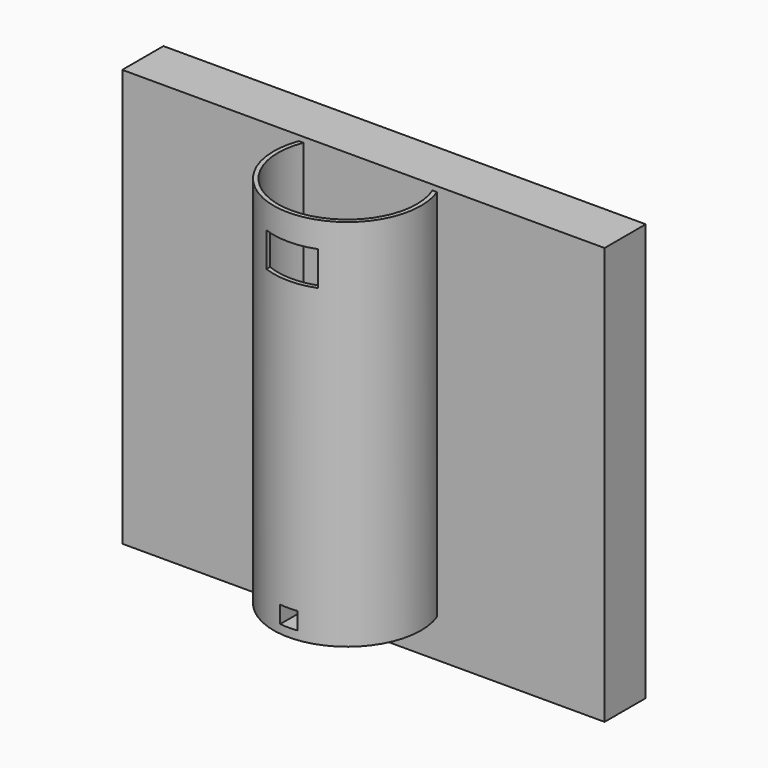
from build123d import *

# Parameters (mm, degrees)
SKETCH_R             = 8.6
PAD_DEPTH            = 1
SKETCH001_R          = 8.6
SKETCH001_R_2        = 3.2
PAD001_DEPTH         = 6.6
SKETCH002_W          = 2
SKETCH002_H          = 2
POCKET_DEPTH         = 8.601
POCKET_DEPTH_BACK    = -8.601
SKETCH003_R          = 8.6
SKETCH003_R_2        = 8.1
PAD002_DEPTH         = 36
SKETCH004_W          = 6
SKETCH004_H          = 4
POCKET001_DEPTH      = 8.601
POCKET001_DEPTH_BACK = -8.601
SKETCH006_W          = 56.248293
SKETCH006_H          = 48.654014
PAD003_DEPTH         = 6


with BuildPart() as part:
    # Sketch → Pad (new body)
    with BuildSketch(Plane.XY):
        Circle(SKETCH_R)
    extrude(amount=PAD_DEPTH)

    # Sketch001 (on Face3 of Pad) → Pad001 (join)
    with BuildSketch(Plane.XY.offset(1)):
        Circle(SKETCH001_R)
        Circle(SKETCH001_R_2, mode=Mode.SUBTRACT)
    extrude(amount=PAD001_DEPTH)

    # Sketch002 → Pocket (cut, two sides)
    with BuildSketch(Plane.XZ) as pocket_sk:
        with Locations((0, 2)):
            Rectangle(SKETCH002_W, SKETCH002_H)
    extrude(amount=-POCKET_DEPTH, mode=Mode.SUBTRACT)
    extrude(pocket_sk.sketch, amount=-POCKET_DEPTH_BACK, mode=Mode.SUBTRACT)

    # Sketch003 (on Face12 of Pocket) → Pad002 (join)
    with BuildSketch(Plane.XY.offset(7.6)):
        Circle(SKETCH003_R)
        Circle(SKETCH003_R_2, mode=Mode.SUBTRACT)
    extrude(amount=PAD002_DEPTH)

    # Sketch004 → Pocket001 (cut, two sides)
    with BuildSketch(Plane.XZ) as pocket001_sk:
        with Locations((0, 38.6)):
            Rectangle(SKETCH004_W, SKETCH004_H)
    extrude(amount=-POCKET001_DEPTH, mode=Mode.SUBTRACT)
    extrude(pocket001_sk.sketch, amount=-POCKET001_DEPTH_BACK, mode=Mode.SUBTRACT)

    # Sketch006 (on DatumPlane) → Pad003 (join)
    with BuildSketch(Plane.XZ.offset(-9)):
        with Locations((-0.52784, 19.889832)):
            Rectangle(SKETCH006_W, SKETCH006_H)
    extrude(amount=PAD003_DEPTH)


solid = part.part
